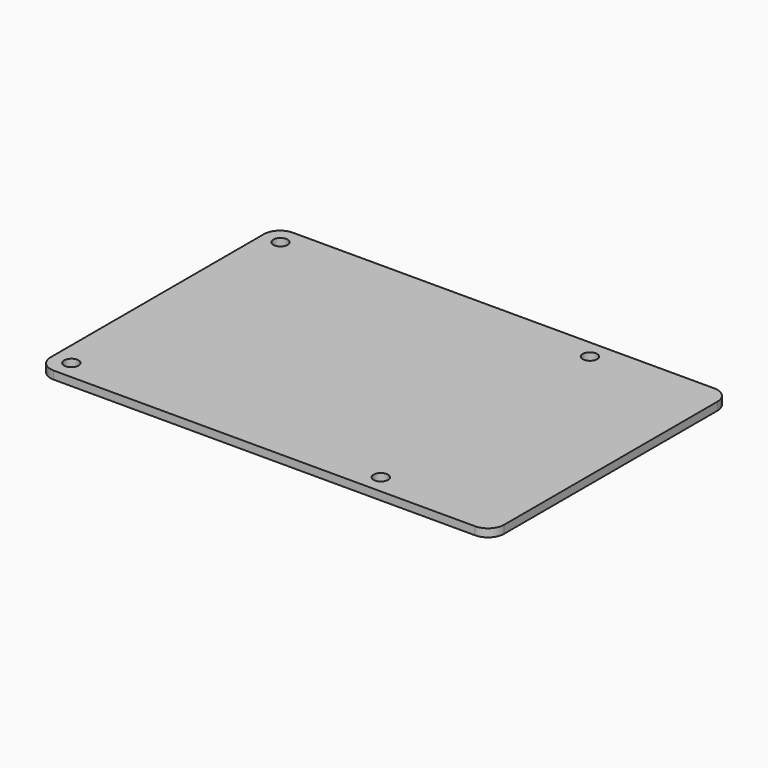
from build123d import *

# Parameters (mm, degrees)
CYLINDER_R     = 1.35
CYLINDER_DEPTH = 1.5
ARRAY_X_COUNT  = 2
ARRAY_X_PITCH  = 58
ARRAY_Y_COUNT  = 2
ARRAY_Y_PITCH  = 49
BOX_W          = 85
BOX_H          = 56
BOX_DEPTH      = 1.5
FILLET007_R    = 3


with BuildPart() as mounting_holes:
    # Cylinder → Cylinder (new body)
    with BuildSketch(Plane(origin=(3.5, 3.5, 0), x_dir=(1, 0, 0), z_dir=(0, 0, 1))):
        Circle(CYLINDER_R)
    extrude(amount=CYLINDER_DEPTH)

    # Array X: Mounting Holes ×2


with BuildPart() as mounting_holes_1:
    add(mounting_holes.part)
    with Locations(*[(i * ARRAY_X_PITCH, 0, 0) for i in range(1, ARRAY_X_COUNT)]):
        add(mounting_holes.part)

    # Array Y: Mounting Holes ×2


with BuildPart() as mounting_holes_2:
    add(mounting_holes_1.part)
    with Locations(*[(0, i * ARRAY_Y_PITCH, 0) for i in range(1, ARRAY_Y_COUNT)]):
        add(mounting_holes_1.part)


with BuildPart() as pcb:
    # Box → Box (new body)
    with BuildSketch(Plane.XY):
        with Locations((42.5, 28)):
            Rectangle(BOX_W, BOX_H)
    extrude(amount=BOX_DEPTH)

    # Fillet007
    fillet007_edges = [pcb.edges().sort_by_distance(p)[0] for p in [
        (0, 0, 0.75),
        (0, 56, 0.75),
        (85, 0, 0.75),
        (85, 56, 0.75),
    ]]
    fillet(fillet007_edges, radius=FILLET007_R)

    # Cut: cut Mounting Holes
    add(mounting_holes_2.part, mode=Mode.SUBTRACT)


solid = pcb.part
